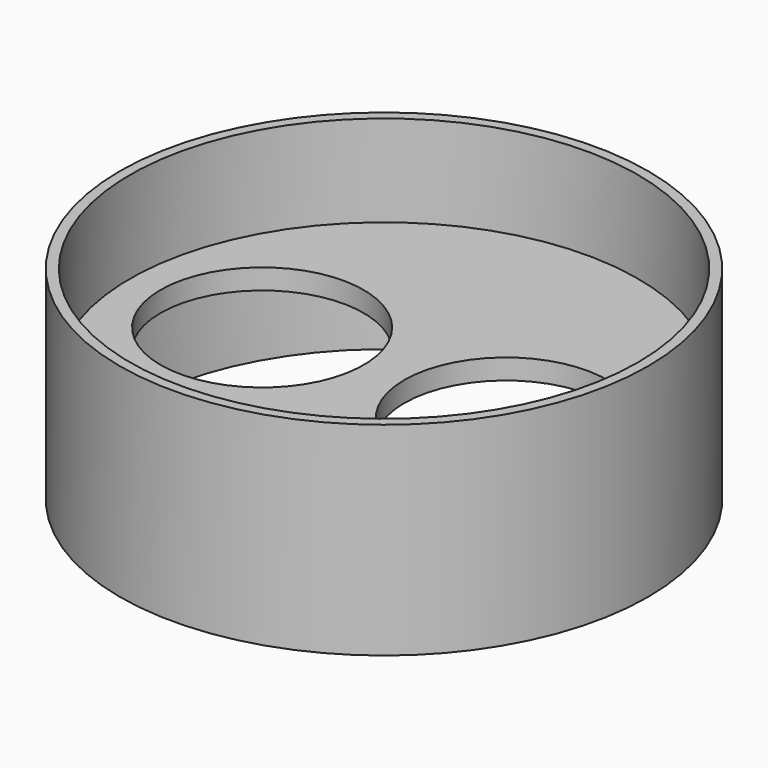
from build123d import *

# Parameters (mm, degrees)
F0_R     = 66.04
F1_DEPTH = 25.4
F3_T     = -2.54
F5_D     = 50.8
F5_DEPTH = 127


with BuildPart() as f1:
    # F0 (on Top) → F1 (new body)
    with BuildSketch(Plane.XY):
        Circle(F0_R)
    extrude(amount=F1_DEPTH)

    # F3
    f3_openings = [f1.faces().sort_by_distance(p)[0] for p in [
        (0, 0, 25.4),
    ]]
    offset(amount=F3_T, openings=f3_openings)

    # F5
    with Locations(Plane(origin=(0, 0, 0), x_dir=(1, 0, 0), z_dir=(0, 0, -1))):
        with Locations((30.48, 0), (-30.48, 0)):
            Hole(F5_D / 2, depth=F5_DEPTH)

    # F6: F1 across face


with BuildPart() as f1_1:
    add(f1.part)
    add(f1.part.mirror(Plane(origin=(0, 0, 0), x_dir=(1, 0, 0), z_dir=(0, 0, -1))))


solid = f1_1.part
